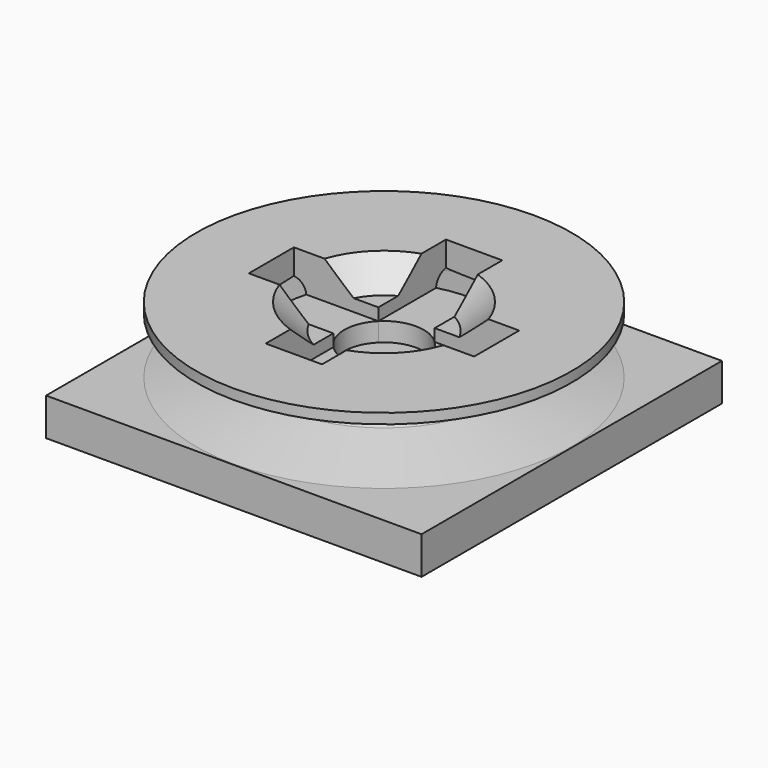
from build123d import *

# Parameters (mm, degrees)
F0_W     = 2
F0_H     = 2
F1_DEPTH = 0.2
F4_W     = 0.3
F4_H     = 0.3
F5_DEPTH = 0.2
F7_DEPTH = 0.1


with BuildPart() as f1:
    # F0 (on Top) → F1 (new body)
    with BuildSketch(Plane.XY):
        Rectangle(F0_W, F0_H)
    extrude(amount=F1_DEPTH)


with BuildPart() as f3:
    # F2 (on Right) → F3 (revolve)
    with BuildSketch(Plane.YZ):
        with BuildLine():
            Line((-0.6108845701, 0.2844980918), (-0.9992043488, 0.2033823257))
            Line((-0.9992043488, 0.2033823257), (0, 0.2033823257))
            Line((0, 0.2033823257), (0, 0.4225981247))
            Line((0, 0.4225981247), (-0.3190304269, 0.4225981247))
            Line((-0.3190304269, 0.4225981247), (-0.4619063984, 0.5576497642))
            Line((-0.4619063984, 0.5576497642), (-0.9992043488, 0.5576497642))
            Line((-0.9992043488, 0.5576497642), (-0.9992043488, 0.5037138908))
            Line((-0.9992043488, 0.5037138908), (-0.6108845701, 0.4225981247))
            ThreePointArc((-0.6108845701, 0.4225981247), (-0.5547679468, 0.3535481083), (-0.6108845701, 0.2844980918))
        make_face()
    revolve(axis=Axis((0, 0, 0.3129902252), (0, 0, -1)))

    # F4 (on face) → F5 (cut)
    with BuildSketch(Plane.XY.offset(0.5576497642)):
        with BuildLine():
            Line((0.15, -0.6), (0.15, -0.4368724309))
            ThreePointArc((0.15, -0.4368724309), (0, -0.4619063984), (-0.15, -0.4368724309))
            Line((-0.15, -0.4368724309), (-0.15, -0.6))
            Line((-0.15, -0.6), (0.15, -0.6))
        make_face()
        with BuildLine():
            Line((0.15, -0.4368724309), (0.15, -0.15))
            Line((0.15, -0.15), (-0.15, -0.15))
            Line((-0.15, -0.15), (-0.15, -0.4368724309))
            ThreePointArc((-0.15, -0.4368724309), (0, -0.4619063984), (0.15, -0.4368724309))
        make_face()
        Rectangle(F4_W, F4_H)
        with BuildLine():
            Line((-0.15, 0.15), (0.15, 0.15))
            Line((0.15, 0.15), (0.15, 0.4368724309))
            ThreePointArc((0.15, 0.4368724309), (0, 0.4619063984), (-0.15, 0.4368724309))
            Line((-0.15, 0.4368724309), (-0.15, 0.15))
        make_face()
        with BuildLine():
            ThreePointArc((-0.15, 0.4368724309), (0, 0.4619063984), (0.15, 0.4368724309))
            Line((0.15, 0.4368724309), (0.15, 0.6))
            Line((0.15, 0.6), (-0.15, 0.6))
            Line((-0.15, 0.6), (-0.15, 0.4368724309))
        make_face()
        with BuildLine():
            ThreePointArc((0.4619063984, 0), (0.4556049232, 0.0760373256), (0.4368724309, 0.15))
            Line((0.4368724309, 0.15), (0.15, 0.15))
            Line((0.15, 0.15), (0.15, -0.15))
            Line((0.15, -0.15), (0.4368724309, -0.15))
            ThreePointArc((0.4368724309, -0.15), (0.4556049232, -0.0760373256), (0.4619063984, 0))
        make_face()
        with BuildLine():
            Line((0.6, -0.15), (0.6, 0.15))
            Line((0.6, 0.15), (0.4368724309, 0.15))
            ThreePointArc((0.4368724309, 0.15), (0.4556049232, 0.0760373256), (0.4619063984, 0))
            ThreePointArc((0.4619063984, 0), (0.4556049232, -0.0760373256), (0.4368724309, -0.15))
            Line((0.4368724309, -0.15), (0.6, -0.15))
        make_face()
        with BuildLine():
            ThreePointArc((-0.4368724309, -0.15), (-0.4619063984, 0), (-0.4368724309, 0.15))
            Line((-0.4368724309, 0.15), (-0.6, 0.15))
            Line((-0.6, 0.15), (-0.6, -0.15))
            Line((-0.6, -0.15), (-0.4368724309, -0.15))
        make_face()
        with BuildLine():
            Line((-0.15, -0.15), (-0.15, 0.15))
            Line((-0.15, 0.15), (-0.4368724309, 0.15))
            ThreePointArc((-0.4368724309, 0.15), (-0.4619063984, 0), (-0.4368724309, -0.15))
            Line((-0.4368724309, -0.15), (-0.15, -0.15))
        make_face()
    extrude(amount=-F5_DEPTH, mode=Mode.SUBTRACT)

    # F6 (on face) → F7 (cut)
    with BuildSketch(Plane.XY.offset(0.3576497642)):
        with BuildLine():
            ThreePointArc((0.15, -0.15), (0.1959844447, -0.081179415), (0.2121320344, 0))
            ThreePointArc((0.2121320344, 0), (0.1959844447, 0.081179415), (0.15, 0.15))
            ThreePointArc((0.15, 0.15), (0, 0.2121320344), (-0.15, 0.15))
            ThreePointArc((-0.15, 0.15), (-0.2121320344, 0), (-0.15, -0.15))
            ThreePointArc((-0.15, -0.15), (0, -0.2121320344), (0.15, -0.15))
        make_face()
    extrude(amount=-F7_DEPTH, mode=Mode.SUBTRACT)


solid = Compound([f1.part, f3.part])
